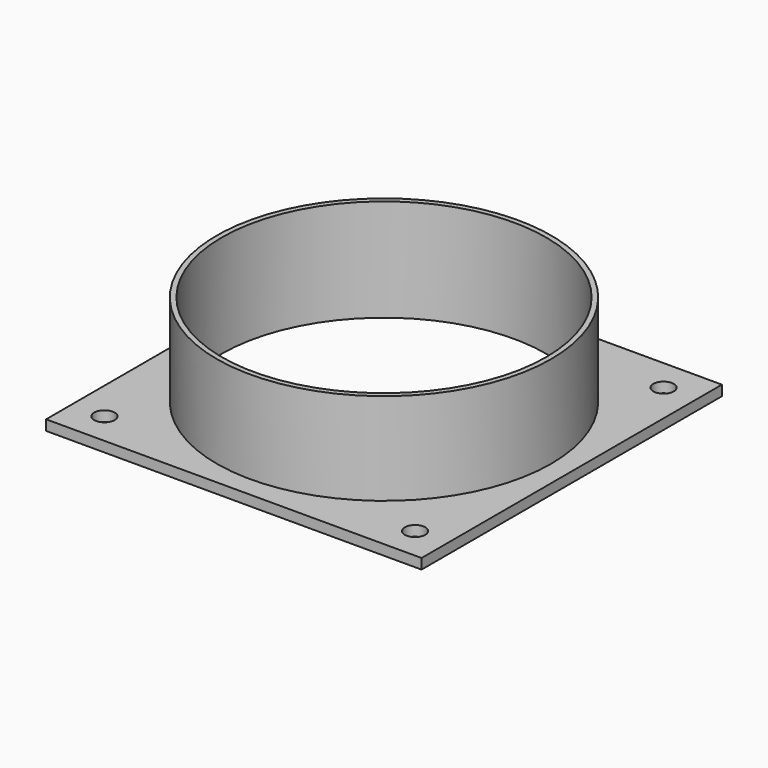
from build123d import *

# Parameters (mm, degrees)
CYLINDER005_R     = 3
CYLINDER005_DEPTH = 10
CYLINDER004_R     = 3
CYLINDER004_DEPTH = 10
CYLINDER003_R     = 3
CYLINDER003_DEPTH = 10
CYLINDER002_R     = 3
CYLINDER002_DEPTH = 10
CYLINDER001_R     = 47.5
CYLINDER001_DEPTH = 30
BOX_W             = 110
BOX_H             = 110
BOX_DEPTH         = 3
CYLINDER_R        = 49
CYLINDER_DEPTH    = 30


with BuildPart() as cylinder005:
    # Cylinder005 → Cylinder005 (new body)
    with BuildSketch(Plane(origin=(100.5, 9.5, 0), x_dir=(1, 0, 0), z_dir=(0, 0, 1))):
        Circle(CYLINDER005_R)
    extrude(amount=CYLINDER005_DEPTH)


with BuildPart() as cylinder004:
    # Cylinder004 → Cylinder004 (new body)
    with BuildSketch(Plane(origin=(100.5, 100.5, 0), x_dir=(1, 0, 0), z_dir=(0, 0, 1))):
        Circle(CYLINDER004_R)
    extrude(amount=CYLINDER004_DEPTH)


with BuildPart() as cylinder003:
    # Cylinder003 → Cylinder003 (new body)
    with BuildSketch(Plane(origin=(9.5, 100.5, 0), x_dir=(1, 0, 0), z_dir=(0, 0, 1))):
        Circle(CYLINDER003_R)
    extrude(amount=CYLINDER003_DEPTH)


with BuildPart() as cylinder002:
    # Cylinder002 → Cylinder002 (new body)
    with BuildSketch(Plane(origin=(9.5, 9.5, 0), x_dir=(1, 0, 0), z_dir=(0, 0, 1))):
        Circle(CYLINDER002_R)
    extrude(amount=CYLINDER002_DEPTH)


with BuildPart() as cylinder001:
    # Cylinder001 → Cylinder001 (new body)
    with BuildSketch(Plane(origin=(55, 55, 0), x_dir=(1, 0, 0), z_dir=(0, 0, 1))):
        Circle(CYLINDER001_R)
    extrude(amount=CYLINDER001_DEPTH)


with BuildPart() as cut:
    # Box → Box (new body)
    with BuildSketch(Plane.XY):
        with Locations((55, 55)):
            Rectangle(BOX_W, BOX_H)
    extrude(amount=BOX_DEPTH)

    # Cut: cut Cylinder001
    add(cylinder001.part, mode=Mode.SUBTRACT)


with BuildPart() as cut005:
    # Cylinder → Cylinder (new body)
    with BuildSketch(Plane(origin=(55, 55, 0), x_dir=(1, 0, 0), z_dir=(0, 0, 1))):
        Circle(CYLINDER_R)
    extrude(amount=CYLINDER_DEPTH)

    # Cut001: cut Cylinder001
    add(cylinder001.part, mode=Mode.SUBTRACT)

    # Fusion: union Cut
    add(cut.part)

    # Cut002: cut Cylinder002
    add(cylinder002.part, mode=Mode.SUBTRACT)

    # Cut003: cut Cylinder003
    add(cylinder003.part, mode=Mode.SUBTRACT)

    # Cut004: cut Cylinder004
    add(cylinder004.part, mode=Mode.SUBTRACT)

    # Cut005: cut Cylinder005
    add(cylinder005.part, mode=Mode.SUBTRACT)


solid = cut005.part
